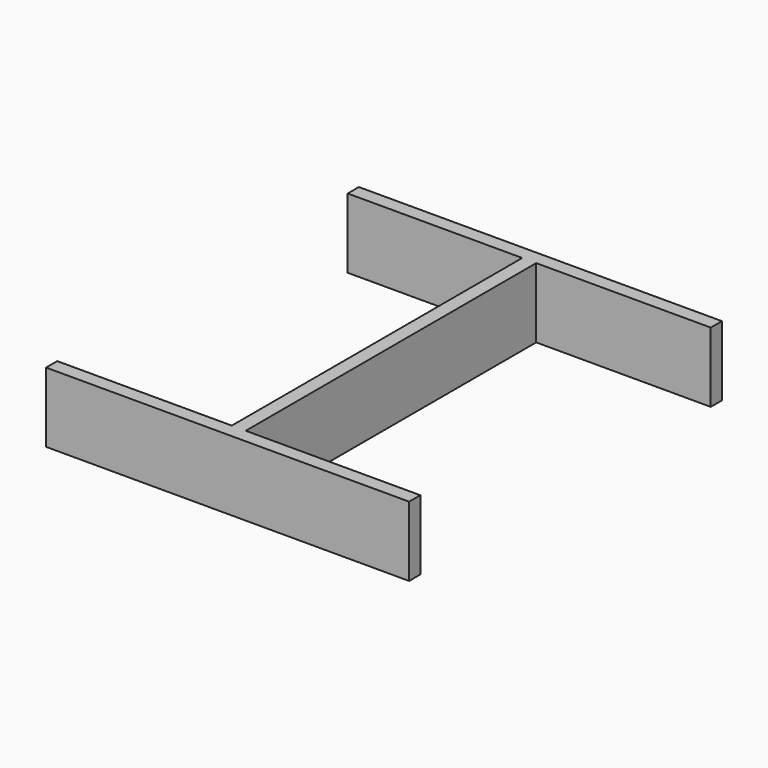
from build123d import *

# Parameters (mm, degrees)
PAD_DEPTH = 10


with BuildPart() as part:
    # Sketch → Pad (new body)
    with BuildSketch(Plane.XY):
        Polygon((25, 54), (25, 2), (0, 2), (0, 0), (52, 0), (52, 2), (27, 2), (27, 54), (52, 54), (52, 56), (0, 56), (0, 54), align=None)
    extrude(amount=PAD_DEPTH)


solid = part.part
